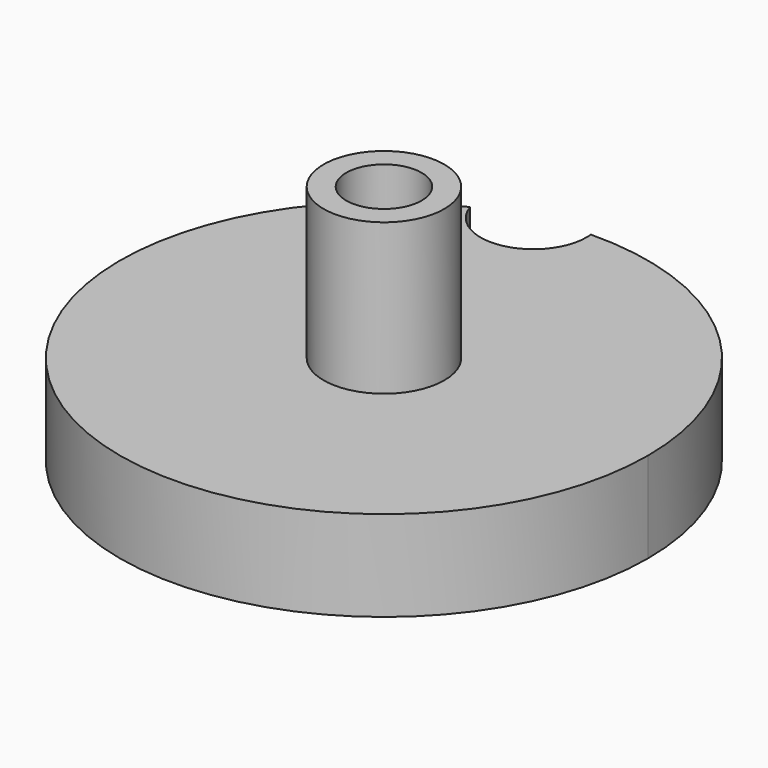
from build123d import *

# Parameters (mm, degrees)
F0_R     = 2.5
F1_DEPTH = 6
F2_R     = 4
F2_R_2   = 2.5
F3_DEPTH = 10


with BuildPart() as f1:
    # F0 (on Top) → F1 (new body)
    with BuildSketch(Plane.XY):
        with BuildLine():
            ThreePointArc((-7.091841, 15.998619), (-9.543133, -14.668967), (17.5, 0))
            ThreePointArc((17.5, 0), (12.271358, 12.476529), (-0.290145, 17.497595))
            ThreePointArc((-0.290145, 17.497595), (-0.27228, 17.294097), (-0.266319, 17.089905))
            ThreePointArc((-0.266319, 17.089905), (-3.213746, 13.633799), (-7.091841, 15.998619))
        make_face()
        Circle(F0_R, mode=Mode.SUBTRACT)
    extrude(amount=F1_DEPTH)

    # F2 (on face) → F3 (join)
    with BuildSketch(Plane.XY.offset(6)):
        Circle(F2_R)
        Circle(F2_R_2, mode=Mode.SUBTRACT)
    extrude(amount=F3_DEPTH)


solid = f1.part
